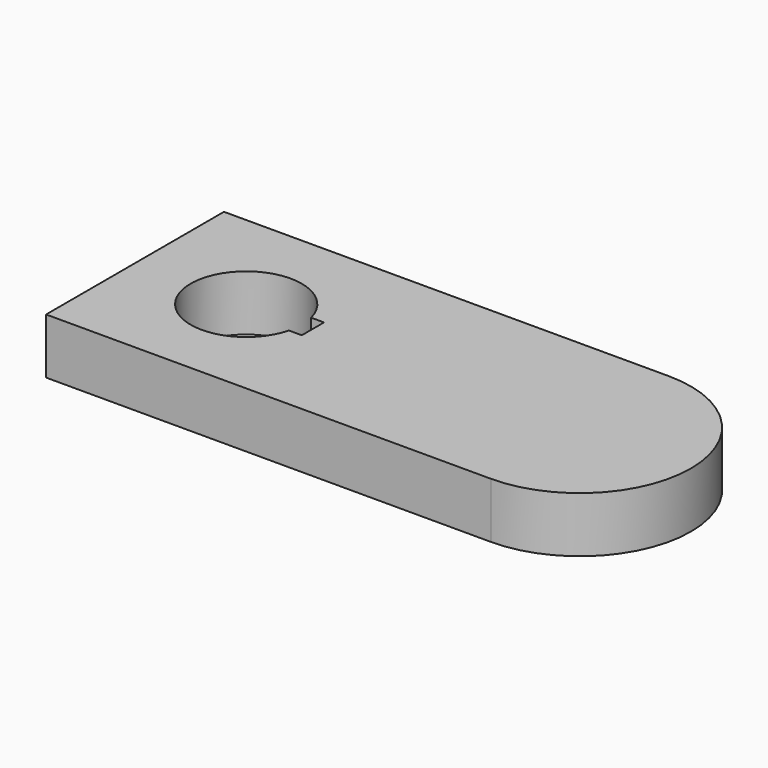
from build123d import *

# Parameters (mm, degrees)
F1_DEPTH = 10


with BuildPart() as f1:
    # F0 (on Top) → F1 (new body)
    with BuildSketch(Plane.XY):
        with BuildLine():
            Line((10.581448, 52.371264), (-69.418552, 52.371264))
            Line((-69.418552, 52.371264), (-69.418552, 12.371264))
            Line((-69.418552, 12.371264), (10.581448, 12.371264))
            ThreePointArc((10.581448, 12.371264), (30.581448, 32.371264), (10.581448, 52.371264))
        make_face()
        with BuildLine():
            ThreePointArc((-39.736093, 29.871264), (-59.418552, 32.371264), (-39.736093, 34.871264))
            Line((-39.736093, 34.871264), (-37.418552, 34.871264))
            Line((-37.418552, 34.871264), (-37.418552, 29.871264))
            Line((-37.418552, 29.871264), (-39.736093, 29.871264))
        make_face(mode=Mode.SUBTRACT)
    extrude(amount=-F1_DEPTH)


solid = f1.part
